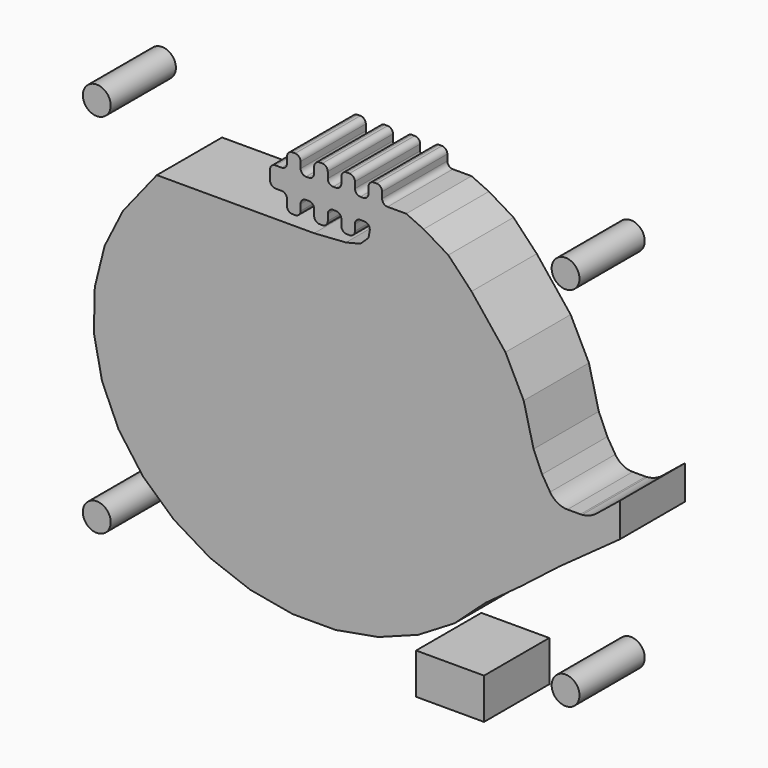
from build123d import *

# Parameters (mm, degrees)
F1_W     = 85
F1_H     = 70
F5_DEPTH = 12
F4_R     = 2.05
F6_DEPTH = 62.1


with BuildPart() as f5:
    # F1 (on Front) → F5 (new body)
    with BuildSketch(Plane.XZ):
        with Locations((2.5, 5)):
            Rectangle(F1_W, F1_H)
    extrude(amount=F5_DEPTH)

    # F4 (on Front) → F6 (cut)
    with BuildSketch(Plane.XZ):
        with BuildLine():
            Line((-31.2299812068, -4.1114716804), (-32.4227339013, 1.7524078222))
            Line((-32.4227339013, 1.7524078222), (-32.2888896622, 7.7311653504))
            Line((-32.2888896622, 7.7311653504), (-30.8379518083, 13.5349290141))
            Line((-30.8379518083, 13.5349290141), (-28.1447099737, 18.9326484028))
            Line((-28.1447099737, 18.9326484028), (-23.1589180792, 25.1899009997))
            Line((-23.1589180792, 25.1899009997), (0, 25.1899009997))
            Line((0, 25.1899009997), (4.6769347973, 25.515306741))
            Line((4.6769347973, 25.515306741), (6.8192416802, 26.0426457971))
            Line((6.8192416802, 26.0426457971), (8.0057503656, 27.1961949766))
            Line((8.0057503656, 27.1961949766), (8.175598207, 28.190600854))
            ThreePointArc((8.175598207, 28.190600854), (7.9984731162, 28.8411641896), (7.3870184391, 29.1252929092))
            Line((7.3870184391, 29.1252929092), (6.8, 29.1252929092))
            ThreePointArc((6.8, 29.1252929092), (6.2343145751, 28.8909783342), (6, 28.3252929092))
            Line((6, 28.3252929092), (6, 27.4252929092))
            ThreePointArc((6, 27.4252929092), (5.7656854249, 26.8596074843), (5.2, 26.6252929092))
            Line((5.2, 26.6252929092), (4.8, 26.6252929092))
            ThreePointArc((4.8, 26.6252929092), (4.2343145751, 26.8596074843), (4, 27.4252929092))
            Line((4, 27.4252929092), (4, 28.3252929092))
            ThreePointArc((4, 28.3252929092), (3.7656854249, 28.8909783342), (3.2, 29.1252929092))
            Line((3.2, 29.1252929092), (2.8, 29.1252929092))
            ThreePointArc((2.8, 29.1252929092), (2.2343145751, 28.8909783342), (2, 28.3252929092))
            Line((2, 28.3252929092), (2, 27.4252929092))
            ThreePointArc((2, 27.4252929092), (1.7656854249, 26.8596074843), (1.2, 26.6252929092))
            Line((1.2, 26.6252929092), (0.8, 26.6252929092))
            ThreePointArc((0.8, 26.6252929092), (0.2343145751, 26.8596074843), (0, 27.4252929092))
            Line((0, 27.4252929092), (0, 28.3252929092))
            ThreePointArc((0, 28.3252929092), (-0.2343145751, 28.8909783342), (-0.8, 29.1252929092))
            Line((-0.8, 29.1252929092), (-1.2, 29.1252929092))
            ThreePointArc((-1.2, 29.1252929092), (-1.7656854249, 28.8909783342), (-2, 28.3252929092))
            Line((-2, 28.3252929092), (-2, 27.4252929092))
            ThreePointArc((-2, 27.4252929092), (-2.2343145751, 26.8596074843), (-2.8, 26.6252929092))
            Line((-2.8, 26.6252929092), (-3.2, 26.6252929092))
            ThreePointArc((-3.2, 26.6252929092), (-3.7656854249, 26.8596074843), (-4, 27.4252929092))
            Line((-4, 27.4252929092), (-4, 28.3252929092))
            ThreePointArc((-4, 28.3252929092), (-4.2343145751, 28.8909783342), (-4.8, 29.1252929092))
            Line((-4.8, 29.1252929092), (-5.7, 29.1252929092))
            ThreePointArc((-5.7, 29.1252929092), (-6.2656854249, 29.3596074843), (-6.5, 29.9252929092))
            Line((-6.5, 29.9252929092), (-6.5, 31.3252929092))
            ThreePointArc((-6.5, 31.3252929092), (-6.2656854249, 31.8909783342), (-5.7, 32.1252929092))
            Line((-5.7, 32.1252929092), (-4.8, 32.1252929092))
            ThreePointArc((-4.8, 32.1252929092), (-4.2343145751, 32.3596074843), (-4, 32.9252929092))
            Line((-4, 32.9252929092), (-4, 33.8252929092))
            ThreePointArc((-4, 33.8252929092), (-3.7656854249, 34.3909783342), (-3.2, 34.6252929092))
            Line((-3.2, 34.6252929092), (-2.8, 34.6252929092))
            ThreePointArc((-2.8, 34.6252929092), (-2.2343145751, 34.3909783342), (-2, 33.8252929092))
            Line((-2, 33.8252929092), (-2, 32.9252929092))
            ThreePointArc((-2, 32.9252929092), (-1.7656854249, 32.3596074843), (-1.2, 32.1252929092))
            Line((-1.2, 32.1252929092), (-0.8, 32.1252929092))
            ThreePointArc((-0.8, 32.1252929092), (-0.2343145751, 32.3596074843), (0, 32.9252929092))
            Line((0, 32.9252929092), (0, 33.8252929092))
            ThreePointArc((0, 33.8252929092), (0.2343145751, 34.3909783342), (0.8, 34.6252929092))
            Line((0.8, 34.6252929092), (1.2, 34.6252929092))
            ThreePointArc((1.2, 34.6252929092), (1.7656854249, 34.3909783342), (2, 33.8252929092))
            Line((2, 33.8252929092), (2, 32.9252929092))
            ThreePointArc((2, 32.9252929092), (2.2343145751, 32.3596074843), (2.8, 32.1252929092))
            Line((2.8, 32.1252929092), (3.2, 32.1252929092))
            ThreePointArc((3.2, 32.1252929092), (3.7656854249, 32.3596074843), (4, 32.9252929092))
            Line((4, 32.9252929092), (4, 33.8252929092))
            ThreePointArc((4, 33.8252929092), (4.2343145751, 34.3909783342), (4.8, 34.6252929092))
            Line((4.8, 34.6252929092), (5.2, 34.6252929092))
            ThreePointArc((5.2, 34.6252929092), (5.7656854249, 34.3909783342), (6, 33.8252929092))
            Line((6, 33.8252929092), (6, 32.9252929092))
            ThreePointArc((6, 32.9252929092), (6.2343145751, 32.3596074843), (6.8, 32.1252929092))
            Line((6.8, 32.1252929092), (7.2, 32.1252929092))
            ThreePointArc((7.2, 32.1252929092), (7.7656854249, 32.3596074843), (8, 32.9252929092))
            Line((8, 32.9252929092), (8, 33.8252929092))
            ThreePointArc((8, 33.8252929092), (8.2343145751, 34.3909783342), (8.8, 34.6252929092))
            Line((8.8, 34.6252929092), (9.2, 34.6252929092))
            ThreePointArc((9.2, 34.6252929092), (9.7656854249, 34.3909783342), (10, 33.8252929092))
            Line((10, 33.8252929092), (10, 32.9252929092))
            ThreePointArc((10, 32.9252929092), (10.2343145751, 32.3596074843), (10.8, 32.1252929092))
            Line((10.8, 32.1252929092), (10.9885356627, 32.1252929092))
            Line((10.9885356627, 32.1252929092), (13.5531716812, 32.1252929092))
            Line((13.5531716812, 32.1252929092), (16.1120866663, 30.9570903004))
            Line((16.1120866663, 30.9570903004), (19.7375298716, 28.7818243773))
            Line((19.7375298716, 28.7818243773), (23.1610051704, 25.1846330154))
            Line((23.1610051704, 25.1846330154), (28.1482424629, 18.9255686875))
            Line((28.1482424629, 18.9255686875), (30.8379520327, 13.5349285645))
            Line((30.8379520327, 13.5349285645), (32.290701789, 7.7239123706))
            Line((32.290701789, 7.7239123706), (33.5483700037, 4.8540960997))
            Line((33.5483700037, 4.8540960997), (34.7211838335, 2.9462716643))
            ThreePointArc((34.7211838335, 2.9462716643), (35.8128741717, 1.8988475717), (37.2768951397, 1.5173667343))
            Line((37.2768951397, 1.5173667343), (39.1860567033, 1.5173667343))
            Line((39.1860567033, 1.5173667343), (39.4498927766, 1.5417703444))
            ThreePointArc((39.4498927766, 1.5417703444), (40.5887928176, 1.8196343038), (41.5982242897, 2.4157465302))
            Line((41.5982242897, 2.4157465302), (45, 5.1694697241))
            Line((45, 5.1694697241), (45, 40))
            Line((45, 40), (-40, 40))
            Line((-40, 40), (-40, -30))
            Line((-40, -30), (15, -30))
            Line((15, -30), (15, -24))
            Line((15, -24), (25, -24))
            Line((25, -24), (25, -30))
            Line((25, -30), (45, -30))
            Line((45, -30), (45, 0.1694697241))
            Line((45, 0.1694697241), (36.0250361264, -6.2958477065))
            Line((36.0250361264, -6.2958477065), (32.733798027, -8.8646188378))
            Line((32.733798027, -8.8646188378), (30.5286142975, -10.5767725036))
            Line((30.5286142975, -10.5767725036), (25.1814303744, -14.5250959721))
            Line((25.1814303744, -14.5250959721), (20.6364464315, -18.6477240923))
            Line((20.6364464315, -18.6477240923), (15.2913826186, -21.8750180972))
            Line((15.2913826186, -21.8750180972), (9.4160128543, -24.0695341256))
            Line((9.4160128543, -24.0695341256), (3.1645428201, -25.189627))
            Line((3.1645428201, -25.189627), (-3.1645438201, -25.189627))
            Line((-3.1645438201, -25.189627), (-9.4069449348, -24.0711590285))
            Line((-9.4069449348, -24.0711590285), (-15.29903657, -21.8703966676))
            Line((-15.29903657, -21.8703966676), (-20.6364439779, -18.647726234))
            Line((-20.6364439779, -18.647726234), (-25.1875165353, -14.5195763818))
            Line((-25.1875165353, -14.5195763818), (-28.7727317318, -9.6175337402))
            Line((-28.7727317318, -9.6175337402), (-31.2299812068, -4.1114716804))
        make_face()
        with Locations((-32, -22)):
            Circle(F4_R, mode=Mode.SUBTRACT)
        with Locations((37, -22)):
            Circle(F4_R, mode=Mode.SUBTRACT)
        with Locations((-32, 32)):
            Circle(F4_R, mode=Mode.SUBTRACT)
        with Locations((37, 32)):
            Circle(F4_R, mode=Mode.SUBTRACT)
    extrude(amount=F6_DEPTH, mode=Mode.SUBTRACT)


solid = f5.part
